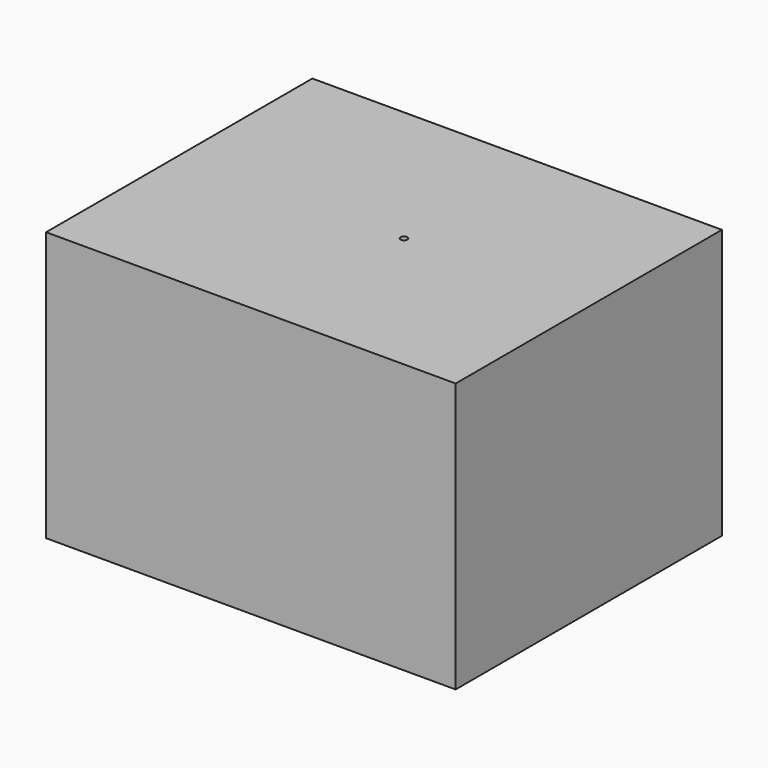
from build123d import *

# Parameters (mm, degrees)
F0_W     = 152.035604
F0_H     = 123.55161
F0_R     = 10
F1_DEPTH = 50
F2_R     = 1.25
F3_DEPTH = 100.001


with BuildPart() as f1:
    # F0 (on Top) → F1 (new body, symmetric)
    with BuildSketch(Plane.XY):
        Rectangle(F0_W, F0_H)
        with BuildLine():
            ThreePointArc((63.768784, -47.5), (63.036551, -49.267767), (61.268784, -50))
            Line((61.268784, -50), (-61.268784, -50))
            ThreePointArc((-61.268784, -50), (-63.036551, -49.267767), (-63.768784, -47.5))
            Line((-63.768784, -47.5), (-63.768784, 47.5))
            ThreePointArc((-63.768784, 47.5), (-63.036551, 49.267767), (-61.268784, 50))
            Line((-61.268784, 50), (61.268784, 50))
            ThreePointArc((61.268784, 50), (63.036551, 49.267767), (63.768784, 47.5))
            Line((63.768784, 47.5), (63.768784, -47.5))
        make_face(mode=Mode.SUBTRACT)
        with BuildLine():
            Line((-61.268784, -50), (61.268784, -50))
            ThreePointArc((61.268784, -50), (63.036551, -49.267767), (63.768784, -47.5))
            Line((63.768784, -47.5), (63.768784, 47.5))
            ThreePointArc((63.768784, 47.5), (63.036551, 49.267767), (61.268784, 50))
            Line((61.268784, 50), (-61.268784, 50))
            ThreePointArc((-61.268784, 50), (-63.036551, 49.267767), (-63.768784, 47.5))
            Line((-63.768784, 47.5), (-63.768784, -47.5))
            ThreePointArc((-63.768784, -47.5), (-63.036551, -49.267767), (-61.268784, -50))
        make_face()
        Circle(F0_R, mode=Mode.SUBTRACT)
        Circle(F0_R)
    extrude(amount=F1_DEPTH, both=True)

    # F2 (on face) → F3 (cut, through all)
    with BuildSketch(Plane.XY.offset(50)):
        with Locations((7.41663, 0)):
            Circle(F2_R)
    extrude(amount=-F3_DEPTH, mode=Mode.SUBTRACT)


solid = f1.part
